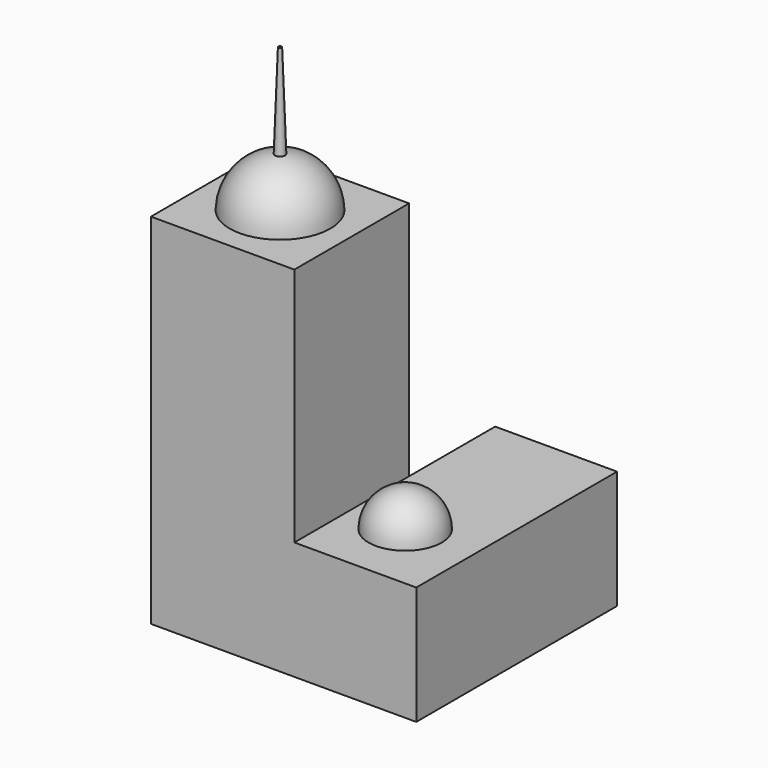
from build123d import *

# Parameters (mm, degrees)
F0_W     = 50.8
F0_H     = 50.8
F0_R     = 2.8336716143
F1_DEPTH = 127
F4_R     = 2.3649720561
F5_DEPTH = 50.8
F5_TAPER = 2
F0_W_2   = 43.18
F0_H_2   = 38.1
F6_DEPTH = 41.91


with BuildPart() as f1:
    # F0 (on Top) → F1 (new body)
    with BuildSketch(Plane.XY):
        Rectangle(F0_W, F0_H)
        Circle(F0_R, mode=Mode.SUBTRACT)
    extrude(amount=F1_DEPTH)

    # F2 (on Front) → F3 (revolve)
    with BuildSketch(Plane.XZ):
        with BuildLine():
            Line((0, 108.9572302283), (0, 144.6343966542))
            ThreePointArc((0, 144.6343966542), (-17.8385832129, 126.7958134413), (0, 108.9572302283))
        make_face()
    revolve(axis=Axis((0, 0, 74.6575031662), (0, 0, -1)))

    # F4 (on face) → F5 (join)
    with BuildSketch(Plane.XY.offset(127)):
        Circle(F4_R)
    extrude(amount=F5_DEPTH, taper=F5_TAPER)

    # F0 (on Top) → F6 (join)
    with BuildSketch(Plane.XY):
        Rectangle(F0_W, F0_H)
        Circle(F0_R, mode=Mode.SUBTRACT)
        with Locations((46.99, 0)):
            Rectangle(F0_W_2, F0_H)
        with Locations((46.99, 44.45)):
            Rectangle(F0_W_2, F0_H_2)
    extrude(amount=F6_DEPTH)

    # F7 (on Front) → F8 (revolve)
    with BuildSketch(Plane.XZ):
        with BuildLine():
            Line((44.333525002, 29.0094343104), (44.333525002, 54.918085309))
            ThreePointArc((44.333525002, 54.918085309), (31.3791995027, 41.9637598097), (44.333525002, 29.0094343104))
        make_face()
    revolve(axis=Axis((44.333525002, 0, 30.4748073686), (0, 0, -1)))


solid = f1.part
